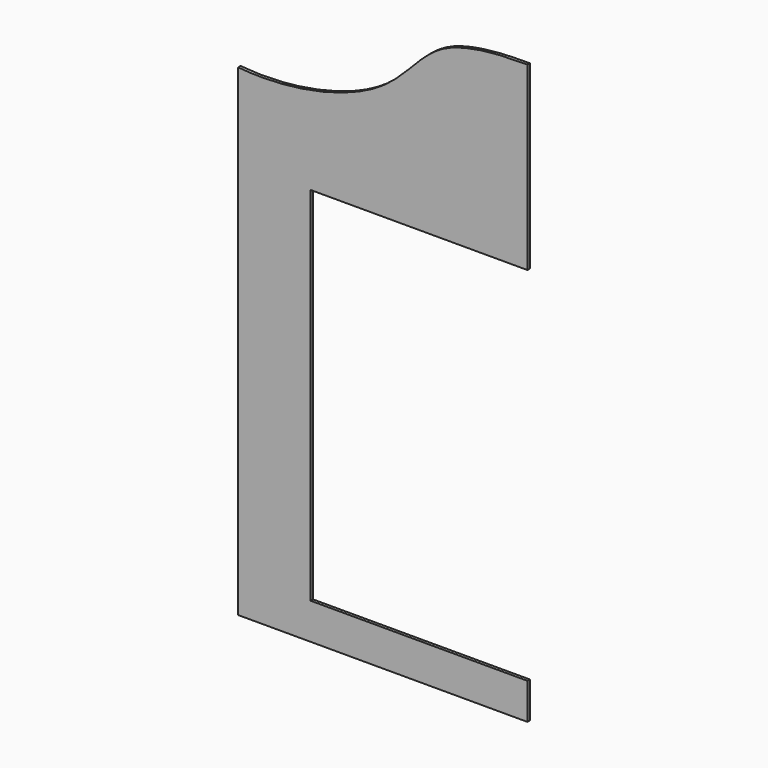
from build123d import *

# Parameters (mm, degrees)
F0_W     = 609.6
F0_H     = 1219.2
F1_DEPTH = 6.35
F2_W     = 457.2
F2_H     = 762
F3_DEPTH = 6.351
F5_DEPTH = 6.351


with BuildPart() as f1:
    # F0 (on Front) → F1 (new body)
    with BuildSketch(Plane.XZ):
        Rectangle(F0_W, F0_H)
    extrude(amount=F1_DEPTH)

    # F2 (on face) → F3 (cut, through all)
    with BuildSketch(Plane.XZ.offset(6.35)):
        with Locations((76.2, -152.4)):
            Rectangle(F2_W, F2_H)
    extrude(amount=-F3_DEPTH, mode=Mode.SUBTRACT)

    # F4 (on face) → F5 (cut, through all)
    with BuildSketch(Plane.XZ.offset(6.35)):
        with BuildLine():
            add(Edge.make_bspline(
                [(296.4302246945, 609.6), (244.3667710116, 609.455527572), (104.3394022526, 603.1283084808), (17.2121287356, 442.3559476606), (-192.9977127392, 395.6617339132), (-304.8, 406.4)],
                knots=[0.0157664589, 0.0157664589, 0.0157664589, 0.0157664589, 0.3044447211, 0.5989406507, 1, 1, 1, 1], degree=3))
            Line((296.4302246945, 609.6), (-304.8, 609.6))
            Line((-304.8, 609.6), (-304.8, 406.4))
        make_face()
    extrude(amount=-F5_DEPTH, mode=Mode.SUBTRACT)


solid = f1.part
